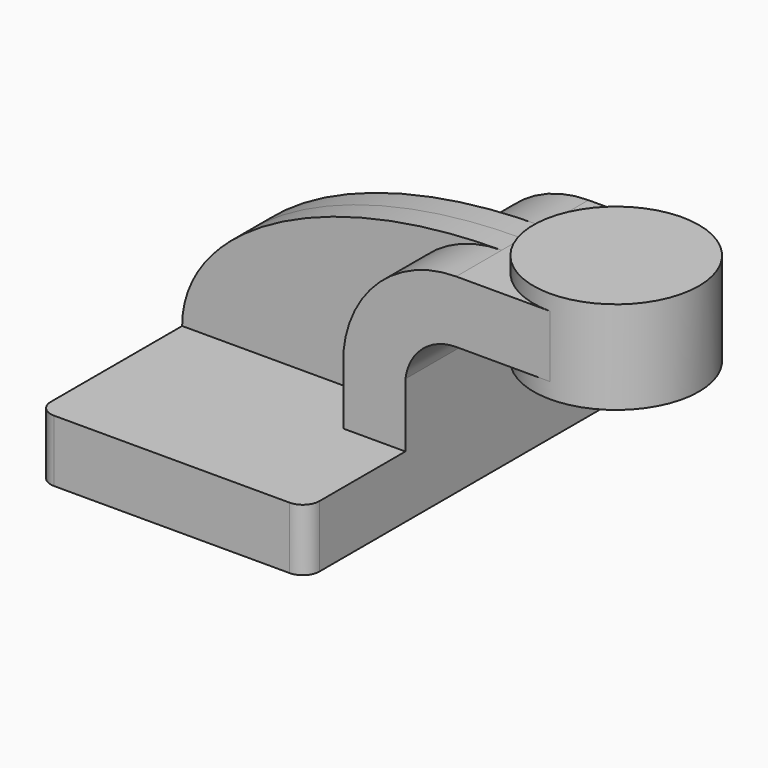
from build123d import *

# Parameters (mm, degrees)
F1_DEPTH = 63.5
F0_W     = 25.4
F0_H     = 19.05
F2_DEPTH = 25.4
F3_DEPTH = 7.9375
F5_R     = 5.08


with BuildPart() as f1:
    # F0 (on Front) → F1 (new body, symmetric)
    with BuildSketch(Plane.XZ):
        Polygon((22.225, 9.525), (-41.275, 9.525), (-41.275, -9.525), (41.275, -9.525), (41.275, 9.525), align=None)
    extrude(amount=F1_DEPTH, both=True)

    # F0 (on Front) → F2 (join, symmetric)
    with BuildSketch(Plane.XZ):
        with Locations((73.025, 52.4002)):
            Rectangle(F0_W, F0_H)
        with BuildLine():
            Line((22.225, 30.1469992557), (22.225, 9.525))
            Line((22.225, 9.525), (41.275, 9.525))
            Line((41.275, 9.525), (41.275, 29.1625964248))
            ThreePointArc((41.275, 29.1625964248), (46.4882785135, 38.9596049457), (56.8722933531, 42.8752))
            Line((56.8722933531, 42.8752), (60.325, 42.8752))
            Line((60.325, 42.8752), (60.325, 61.9252))
            Line((60.325, 61.9252), (56.8722933531, 61.9252))
            ThreePointArc((56.8722933531, 61.9252), (33.3654380804, 52.7775587752), (22.225, 30.1469992557))
        make_face()
    extrude(amount=F2_DEPTH, both=True)

    # F0 (on Front) → F3 (join, symmetric)
    with BuildSketch(Plane.XZ):
        with BuildLine():
            add(Edge.make_bspline(
                [(-41.275, 9.525), (-41.275, 37.3456478119), (0, 61.9252), (56.8722933531, 61.9252)],
                knots=[0, 0, 0, 0, 111.2594811806, 111.2594811806, 111.2594811806, 111.2594811806], degree=3))
            Line((-41.275, 9.525), (22.225, 9.525))
            Line((22.225, 9.525), (22.225, 30.1469992557))
            ThreePointArc((22.225, 30.1469992557), (33.3654380804, 52.7775587752), (56.8722933531, 61.9252))
        make_face()
    extrude(amount=F3_DEPTH, both=True)

    # F0 (on Front) → F4 (revolve)
    with BuildSketch(Plane.XZ):
        Polygon((85.725, 66.675), (85.725, 61.9252), (85.725, 42.8752), (85.725, 38.1), (111.125, 38.1), (111.125, 66.675), align=None)
        Polygon((85.725, 66.675), (85.725, 61.9252), (85.725, 42.8752), (85.725, 38.1), (111.125, 38.1), (111.125, 66.675), align=None)
    revolve(axis=Axis((85.725, 0, 52.3875), (0, 0, 1)))

    # F5
    f5_edges = [f1.edges().sort_by_distance(p)[0] for p in [
        (-41.275, -63.5, 0),
        (41.275, -63.5, 0),
        (41.275, 63.5, 0),
        (-41.275, 63.5, 0),
    ]]
    fillet(f5_edges, radius=F5_R)


solid = f1.part
